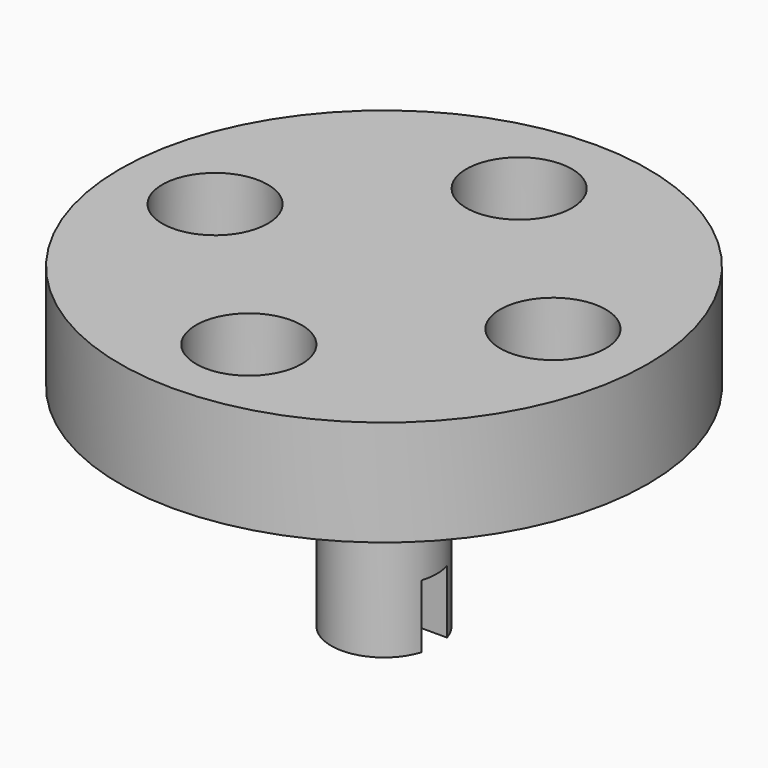
from build123d import *

# Parameters (mm, degrees)
F0_R     = 12.5
F0_R_2   = 2.5
F1_DEPTH = 5
F2_R     = 2.5
F3_DEPTH = 10
F5_DEPTH = 3


with BuildPart() as f1:
    # F0 (on Top) → F1 (new body)
    with BuildSketch(Plane.XY):
        Circle(F0_R)
        with Locations((0, -8)):
            Circle(F0_R_2, mode=Mode.SUBTRACT)
        with Locations((-8, 0)):
            Circle(F0_R_2, mode=Mode.SUBTRACT)
        with Locations((8, 0)):
            Circle(F0_R_2, mode=Mode.SUBTRACT)
        with Locations((0, 8)):
            Circle(F0_R_2, mode=Mode.SUBTRACT)
    extrude(amount=F1_DEPTH)


with BuildPart() as f3:
    # F2 (on face) → F3 (new body)
    with BuildSketch(Plane(origin=(0, 0, 0), x_dir=(1, 0, 0), z_dir=(0, 0, -1))):
        Circle(F2_R)
    extrude(amount=F3_DEPTH)

    # F4 (on face) → F5 (cut)
    with BuildSketch(Plane(origin=(0, 0, -10), x_dir=(1, 0, 0), z_dir=(0, 0, -1))):
        with BuildLine():
            ThreePointArc((2.5, 0), (2.4710443145, 0.3793942482), (2.3848480035, 0.75))
            Line((2.3848480035, 0.75), (-2.3848480035, 0.75))
            ThreePointArc((-2.3848480035, 0.75), (-2.5, 0), (-2.3848480035, -0.75))
            Line((-2.3848480035, -0.75), (2.3848480035, -0.75))
            ThreePointArc((2.3848480035, -0.75), (2.4710443145, -0.3793942482), (2.5, 0))
        make_face()
    extrude(amount=-F5_DEPTH, mode=Mode.SUBTRACT)


solid = Compound([f1.part, f3.part])
